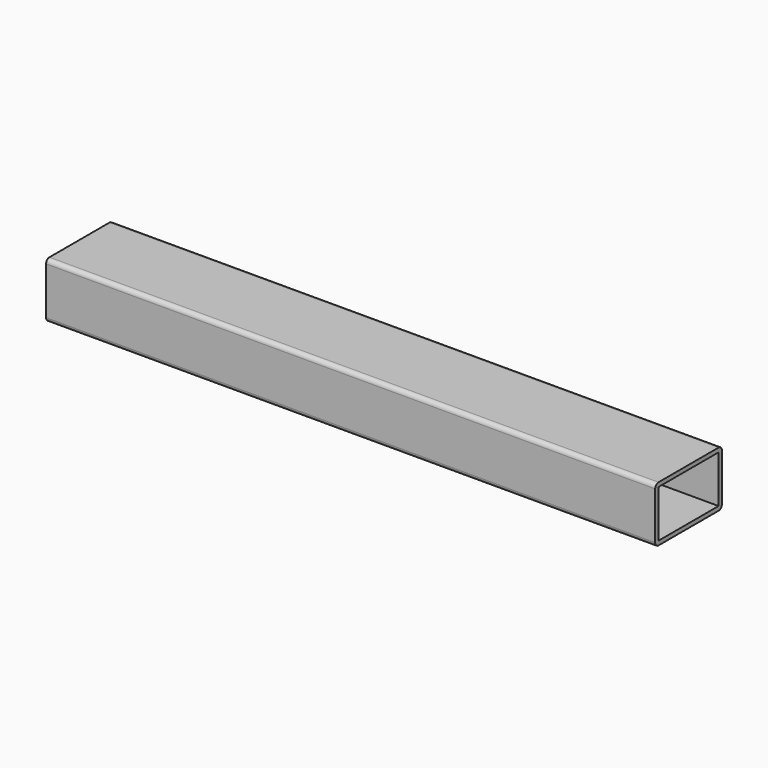
from build123d import *

# Parameters (mm, degrees)
F0_W     = 54
F0_H     = 34
F1_DEPTH = 219


with BuildPart() as f1:
    # F0 (on Right) → F1 (new body, symmetric)
    with BuildSketch(Plane.YZ):
        with BuildLine():
            ThreePointArc((3, 34), (2.12132, 36.12132), (0, 37))
            Line((0, 37), (-54, 37))
            ThreePointArc((-54, 37), (-56.12132, 36.12132), (-57, 34))
            Line((-57, 34), (-57, 0))
            ThreePointArc((-57, 0), (-56.12132, -2.12132), (-54, -3))
            Line((-54, -3), (0, -3))
            ThreePointArc((0, -3), (2.12132, -2.12132), (3, 0))
            Line((3, 0), (3, 34))
        make_face()
        with Locations((-27, 17)):
            Rectangle(F0_W, F0_H, mode=Mode.SUBTRACT)
    extrude(amount=F1_DEPTH, both=True)


solid = f1.part
